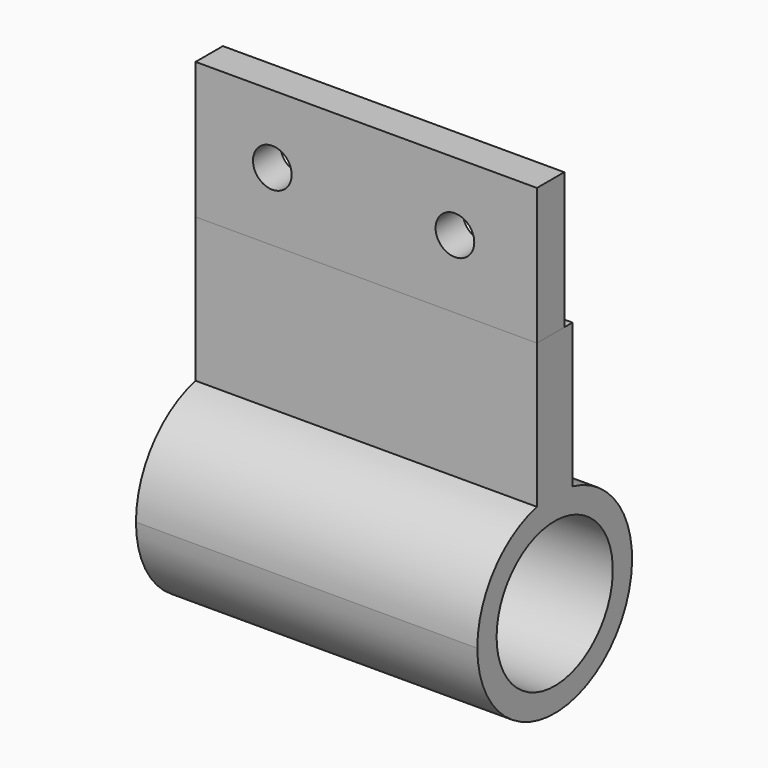
from build123d import *

# Parameters (mm, degrees)
F0_W     = 30
F0_H     = 12
F0_R     = 1.7
F1_DEPTH = 3
F2_W     = 30
F2_H     = 15
F3_DEPTH = 3.9
F5_DEPTH = 30
F6_R     = 6.381665
F7_DEPTH = 30.001


with BuildPart() as f1:
    # F0 (on Front) → F1 (new body)
    with BuildSketch(Plane.XZ):
        Rectangle(F0_W, F0_H)
        with Locations((-8.255844, 0)):
            Circle(F0_R, mode=Mode.SUBTRACT)
        with Locations((7.790726, 0)):
            Circle(F0_R, mode=Mode.SUBTRACT)
    extrude(amount=-F1_DEPTH)


with BuildPart() as f3:
    # F2 (on Front) → F3 (new body)
    with BuildSketch(Plane.XZ):
        with Locations((0, -13.5)):
            Rectangle(F2_W, F2_H)
    extrude(amount=-F3_DEPTH)

    # F4 (on face) → F5 (join)
    with BuildSketch(Plane(origin=(-15, 0, 0), x_dir=(0, -1, 0), z_dir=(-1, 0, 0))):
        with BuildLine():
            ThreePointArc((-3.9, -18.67267), (-7.226125, -33.610241), (6.55, -26.945971))
            ThreePointArc((6.55, -26.945971), (4.71427, -21.669845), (0, -18.67267))
            Line((0, -18.67267), (0, -21))
            Line((0, -21), (-3.9, -21))
            Line((-3.9, -21), (-3.9, -18.67267))
        make_face()
    extrude(amount=-F5_DEPTH)

    # F6 (on face) → F7 (cut, through all)
    with BuildSketch(Plane(origin=(-15, 0, 0), x_dir=(0, -1, 0), z_dir=(-1, 0, 0))):
        with Locations((-1.95, -26.945971)):
            Circle(F6_R)
    extrude(amount=-F7_DEPTH, mode=Mode.SUBTRACT)


solid = Compound([f1.part, f3.part])
